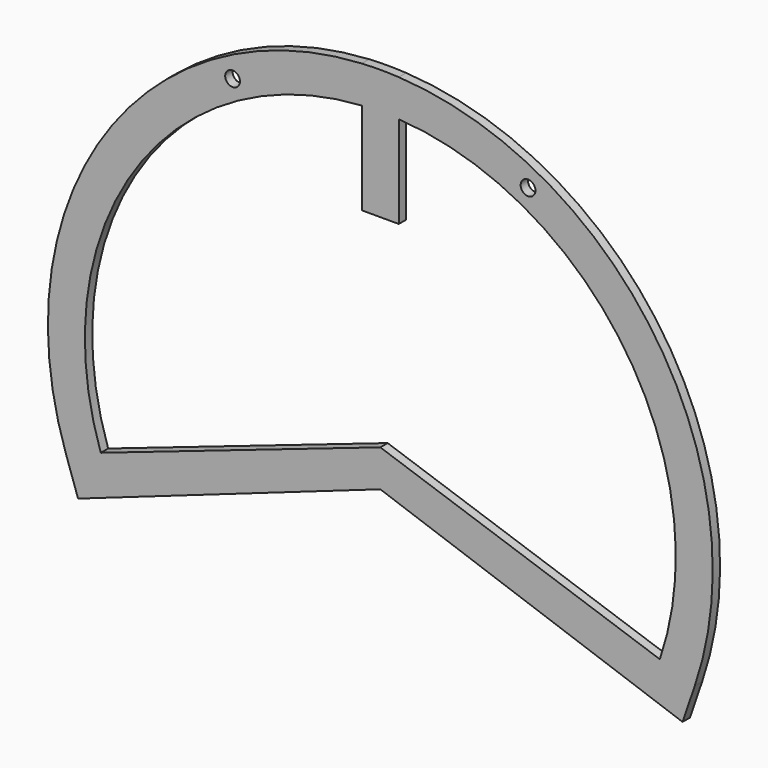
from build123d import *

# Parameters (mm, degrees)
F0_R     = 5.08
F1_DEPTH = 6.35


with BuildPart() as f1:
    # F0 (on Front) → F1 (new body)
    with BuildSketch(Plane.XZ):
        Polygon((192.247183, -65.812313), (0, 0), (-192.247183, -65.812313), (-216.278081, -74.038852), (-207.854538, -98.645227), (0, -25.4), (207.854538, -98.645227), (216.278081, -74.038852), align=None)
        with BuildLine():
            Line((-216.278081, -74.038852), (-192.247183, -65.812313))
            ThreePointArc((-192.247183, -65.812313), (-168.935929, 112.919847), (-12.7, 202.802737))
            Line((-12.7, 202.802737), (-12.7, 228.24695))
            ThreePointArc((-12.7, 228.24695), (-189.609907, 127.695118), (-216.278081, -74.038852))
        make_face()
        with Locations((-101.6, 190.14695)):
            Circle(F0_R, mode=Mode.SUBTRACT)
        with BuildLine():
            ThreePointArc((12.7, 202.802737), (168.935929, 112.919847), (192.247183, -65.812313))
            Line((192.247183, -65.812313), (216.278081, -74.038852))
            ThreePointArc((216.278081, -74.038852), (189.609907, 127.695118), (12.7, 228.24695))
            Line((12.7, 228.24695), (12.7, 202.802737))
        make_face()
        with Locations((101.6, 190.14695)):
            Circle(F0_R, mode=Mode.SUBTRACT)
        with BuildLine():
            Line((-12.7, 228.24695), (-12.7, 202.802737))
            ThreePointArc((-12.7, 202.802737), (0, 203.2), (12.7, 202.802737))
            Line((12.7, 202.802737), (12.7, 228.24695))
            ThreePointArc((12.7, 228.24695), (0, 228.6), (-12.7, 228.24695))
        make_face()
        with BuildLine():
            ThreePointArc((12.7, 202.802737), (0, 203.2), (-12.7, 202.802737))
            Line((-12.7, 202.802737), (-12.7, 139.34695))
            Line((-12.7, 139.34695), (12.7, 139.34695))
            Line((12.7, 139.34695), (12.7, 202.802737))
        make_face()
    extrude(amount=F1_DEPTH)


solid = f1.part
